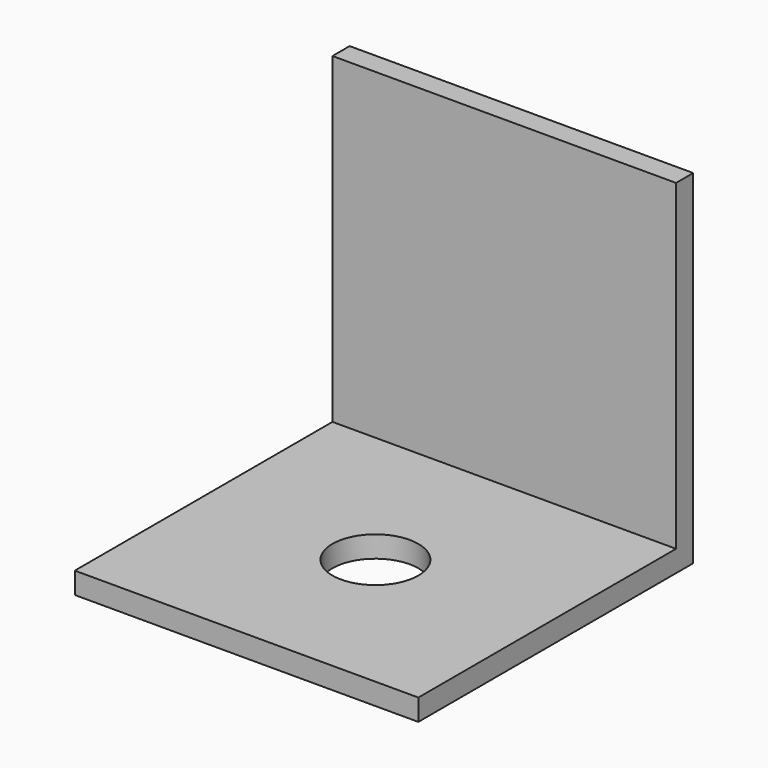
from build123d import *

# Parameters (mm, degrees)
F1_DEPTH = 50.8
F2_R     = 6.35
F3_DEPTH = 25.4


with BuildPart() as f1:
    # F0 (on Right) → F1 (new body)
    with BuildSketch(Plane.YZ):
        Polygon((-50.8, 0), (0, 0), (0, 50.8), (-3.175, 50.8), (-3.175, 3.175), (-50.8, 3.175), align=None)
    extrude(amount=F1_DEPTH)

    # F2 (on face) → F3 (cut)
    with BuildSketch(Plane.XY.offset(3.175)):
        with Locations((25.4, -26.9875)):
            Circle(F2_R)
    extrude(amount=-F3_DEPTH, mode=Mode.SUBTRACT)


solid = f1.part
